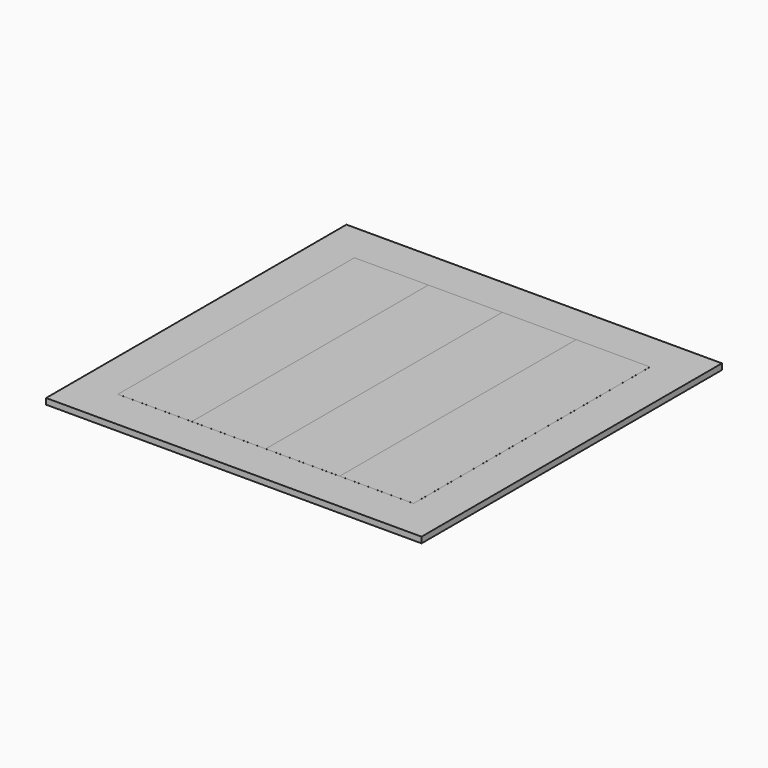
from build123d import *

# Parameters (mm, degrees)
F0_W     = 127
F0_H     = 127
F1_DEPTH = 2
F2_W     = 25
F2_H     = 100
F3_DEPTH = 0.01
F4_DEPTH = 0.01
F5_DEPTH = 0.01
F6_DEPTH = 0.01


with BuildPart() as f1:
    # F0 (on Top) → F1 (new body)
    with BuildSketch(Plane.XY):
        with Locations((63.5, 63.5)):
            Rectangle(F0_W, F0_H)
    extrude(amount=F1_DEPTH)


with BuildPart() as f3:
    # F2 (on face) → F3 (new body)
    with BuildSketch(Plane.XY.offset(2)):
        with Locations((26, 63.5)):
            Rectangle(F2_W, F2_H)
    extrude(amount=F3_DEPTH)


with BuildPart() as f4:
    # F2 (on face) → F4 (new body)
    with BuildSketch(Plane.XY.offset(2)):
        with Locations((51, 63.5)):
            Rectangle(F2_W, F2_H)
    extrude(amount=F4_DEPTH)


with BuildPart() as f5:
    # F2 (on face) → F5 (new body)
    with BuildSketch(Plane.XY.offset(2)):
        with Locations((76, 63.5)):
            Rectangle(F2_W, F2_H)
    extrude(amount=F5_DEPTH)


with BuildPart() as f6:
    # F2 (on face) → F6 (new body)
    with BuildSketch(Plane.XY.offset(2)):
        with Locations((101, 63.5)):
            Rectangle(F2_W, F2_H)
    extrude(amount=F6_DEPTH)


solid = Compound([f1.part, f3.part, f4.part, f5.part, f6.part])
